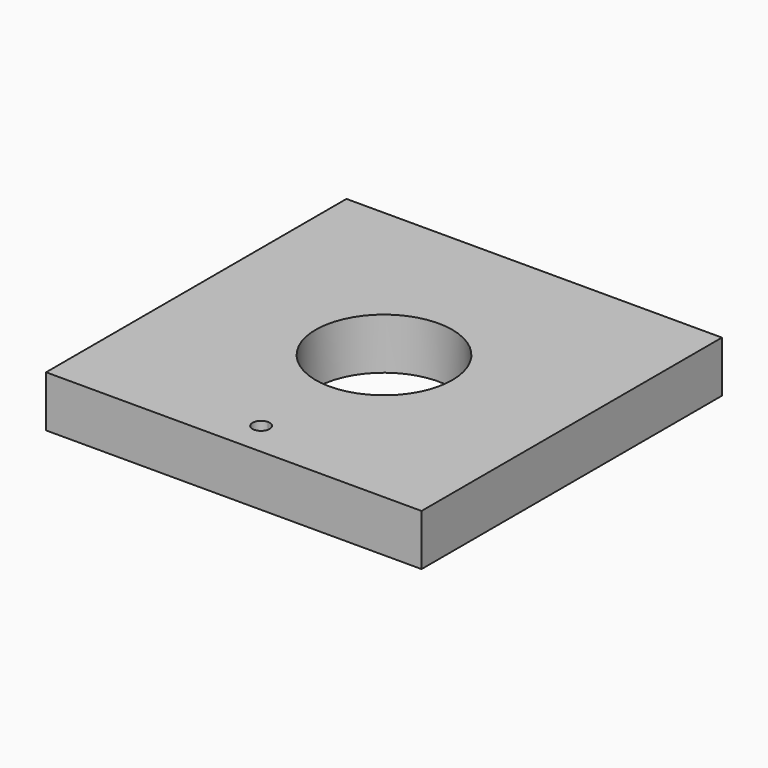
from build123d import *

# Parameters (mm, degrees)
F1_DEPTH = 19.05


with BuildPart() as f1:
    # F0 (on Top) → F1 (new body)
    with BuildSketch(Plane.XY):
        Polygon((69.85, 69.85), (-69.85, 69.85), (-69.85, -69.85), (0, -69.85), (69.85, -69.85), align=None)
        with BuildLine():
            ThreePointArc((3.175, -57.15), (2.245064, -59.395064), (0, -60.325))
            ThreePointArc((0, -60.325), (-3.175, -57.15), (0, -53.975))
            ThreePointArc((0, -53.975), (2.245064, -54.904936), (3.175, -57.15))
        make_face(mode=Mode.SUBTRACT)
        with BuildLine():
            ThreePointArc((25.4, 0), (17.960512, -17.960512), (0, -25.4))
            ThreePointArc((0, -25.4), (-17.960512, 17.960512), (25.4, 0))
        make_face(mode=Mode.SUBTRACT)
    extrude(amount=F1_DEPTH)


solid = f1.part
